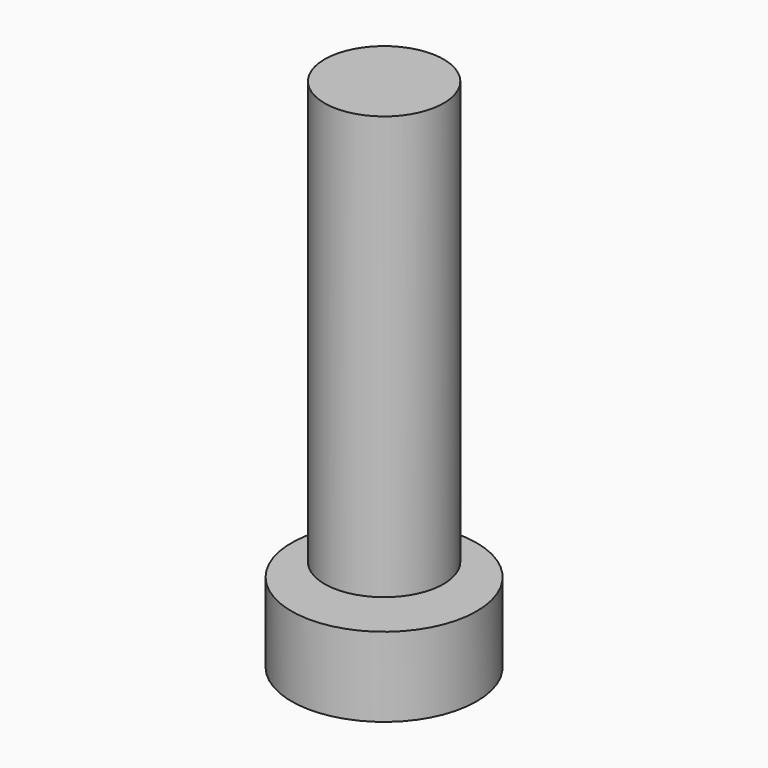
from build123d import *

# Parameters (mm, degrees)
F2_R     = 25.4
F2_R_2   = 6.35
F3_DEPTH = 6.35
F4_W     = 3.175
F4_H     = 25.4


with BuildPart() as f1:
    # F0 (on Front) → F1 (revolve)
    with BuildSketch(Plane.XZ):
        Polygon((-28.575, 0), (-25.4, 0), (-25.4, 200.025), (0, 200.025), (0, 203.2), (-28.575, 203.2), align=None)
    revolve(axis=Axis((0, 0, 100.0125), (0, 0, -1)))


with BuildPart() as f3:
    # F2 (on Top) → F3 (new body)
    with BuildSketch(Plane.XY):
        Circle(F2_R)
        Circle(F2_R_2, mode=Mode.SUBTRACT)
    extrude(amount=F3_DEPTH)


with BuildPart() as f5:
    # F4 (on Front) → F5 (revolve)
    with BuildSketch(Plane.XZ):
        Polygon((-3.175, 6.35), (0, 6.35), (0, 57.15), (-15.875, 57.15), (-15.875, 31.75), (-19.05, 31.75), (-19.05, 6.35), align=None)
        with Locations((-1.5875, -6.35)):
            Rectangle(F4_W, F4_H)
    revolve(axis=Axis((0, 0, 31.75), (0, 0, -1)))


with BuildPart() as f7:
    # F6 (on Front) → F7 (revolve)
    with BuildSketch(Plane.XZ):
        Polygon((44.45, -6.35), (3.175, -6.35), (3.175, -19.05), (19.05, -19.05), (34.925, -44.45), (44.45, -44.45), align=None)
    revolve(axis=Axis((0, 0, -31.75), (0, 0, -1)))


solid = Compound([f1.part, f3.part, f5.part, f7.part])
